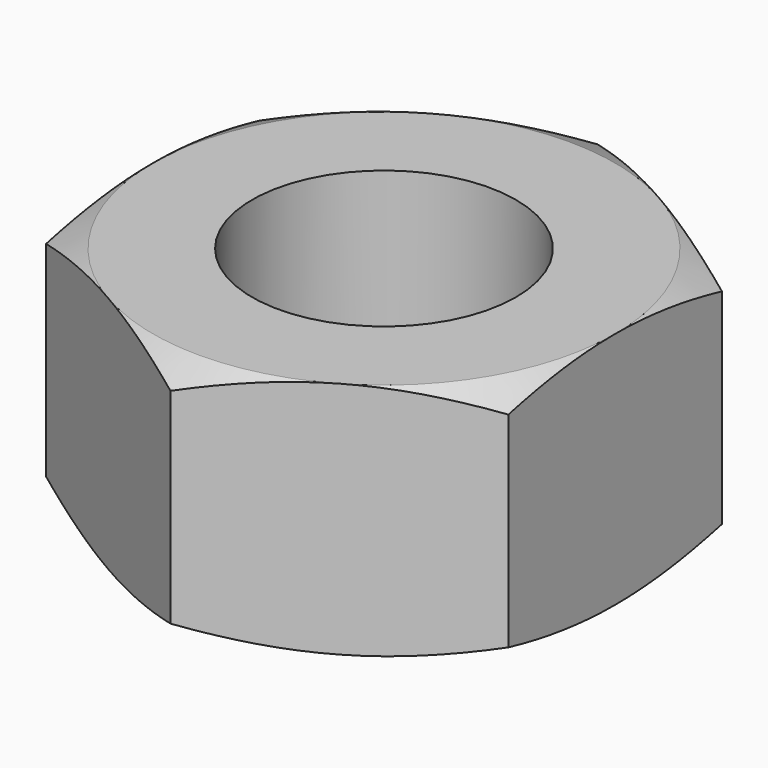
from build123d import *

# Parameters (mm, degrees)
F0_R     = 3.175
F1_DEPTH = 2.8702


with BuildPart() as f1:
    # F0 (on Top) → F1 (new body, symmetric)
    with BuildSketch(Plane.XY):
        Polygon((0, -6.423137), (5.5626, -3.211569), (5.5626, 3.211569), (0, 6.423137), (-5.5626, 3.211569), (-5.5626, -3.211569), align=None)
        Circle(F0_R, mode=Mode.SUBTRACT)
    extrude(amount=F1_DEPTH, both=True)

    # F2 (on Front) → F3 (revolve, cut)
    with BuildSketch(Plane.XZ):
        Polygon((6.773051, 2.8702), (5.5626, 2.8702), (6.773051, 2.301839), align=None)
    revolve(axis=Axis((0, 0, 2.8702), (0, 0, 1)), mode=Mode.SUBTRACT)

    # F2 (on Front) → F4 (revolve, cut)
    with BuildSketch(Plane.XZ):
        Polygon((6.773051, -2.8702), (6.773051, -2.301839), (5.5626, -2.8702), align=None)
    revolve(axis=Axis((0, 0, -2.8702), (0, 0, 1)), mode=Mode.SUBTRACT)


solid = f1.part
